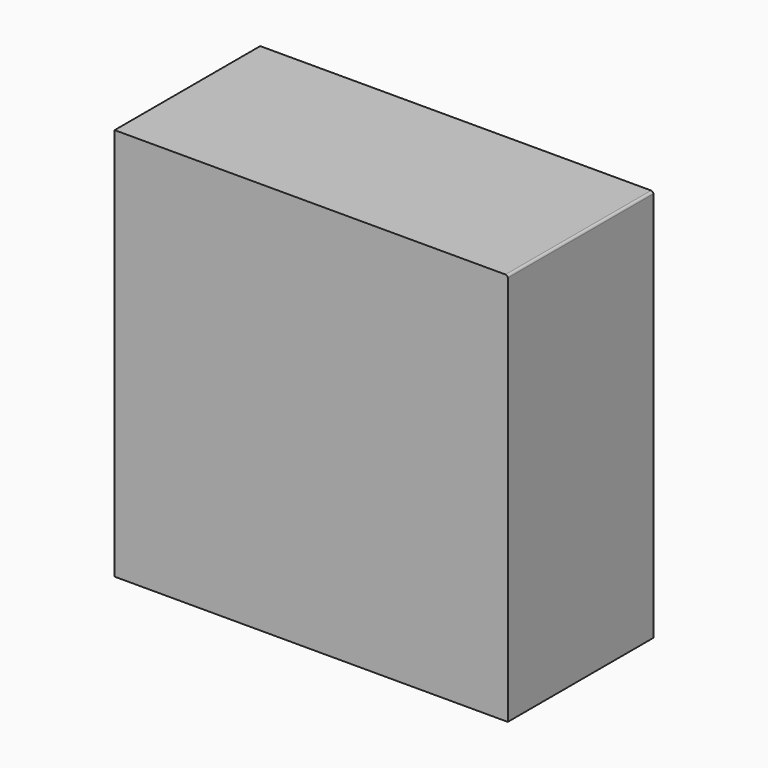
from build123d import *

# Parameters (mm, degrees)
F0_W     = 889
F0_H     = 889
F1_DEPTH = 411.48
F2_R     = 5.08


with BuildPart() as f1:
    # F0 (on Front) → F1 (new body)
    with BuildSketch(Plane.XZ):
        Rectangle(F0_W, F0_H)
    extrude(amount=F1_DEPTH)

    # F2
    f2_edges = [f1.edges().sort_by_distance(p)[0] for p in [
        (444.5, -205.74, 444.5),
    ]]
    fillet(f2_edges, radius=F2_R)


solid = f1.part
